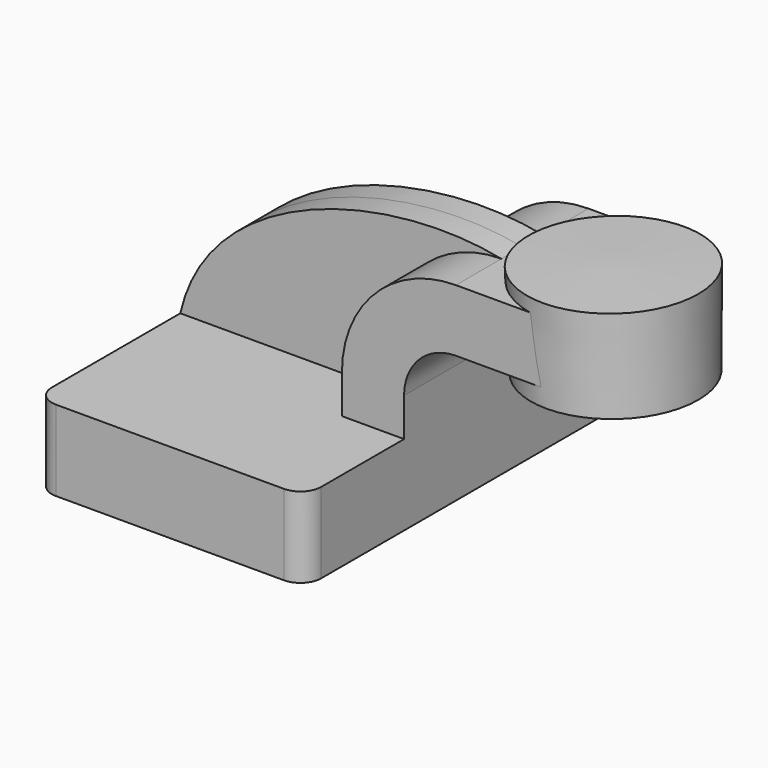
from build123d import *

# Parameters (mm, degrees)
F1_DEPTH = 63.5
F0_W     = 24.7741062101
F0_H     = 19.05
F2_DEPTH = 25.4
F3_DEPTH = 7.9375
F5_R     = 6.35


with BuildPart() as f1:
    # F0 (on Front) → F1 (new body, symmetric)
    with BuildSketch(Plane.XZ):
        Polygon((22.225, 12.3348908712), (-41.275, 12.3348908712), (-41.275, -12.3348908712), (41.275, -12.3348908712), (41.275, 12.3348908712), align=None)
    extrude(amount=F1_DEPTH, both=True)

    # F0 (on Front) → F2 (join, symmetric)
    with BuildSketch(Plane.XZ):
        with BuildLine():
            Line((22.225, 24.1141091288), (22.225, 12.3348908712))
            Line((22.225, 12.3348908712), (41.275, 12.3348908712))
            Line((41.275, 12.3348908712), (41.275, 24.1141091288))
            ThreePointArc((41.275, 24.1141091288), (45.9246798487, 35.3394292801), (57.15, 39.9891091288))
            Line((57.15, 39.9891091288), (60.325, 39.9891091288))
            Line((60.325, 39.9891091288), (60.325, 59.0391091288))
            Line((60.325, 59.0391091288), (57.15, 59.0391091288))
            ThreePointArc((57.15, 59.0391091288), (32.4542956671, 48.8098134617), (22.225, 24.1141091288))
        make_face()
        with Locations((72.7120531051, 49.5141091288)):
            Rectangle(F0_W, F0_H)
    extrude(amount=F2_DEPTH, both=True)

    # F0 (on Front) → F3 (join, symmetric)
    with BuildSketch(Plane.XZ):
        with BuildLine():
            add(Edge.make_bspline(
                [(-41.275, 12.3348908712), (-32.6056554914, 51.0892942548), (21.4900877327, 66.2850886583), (57.15, 59.0391091288)],
                knots=[0, 0, 0, 0, 108.9438599833, 108.9438599833, 108.9438599833, 108.9438599833], degree=3))
            Line((-41.275, 12.3348908712), (22.225, 12.3348908712))
            Line((22.225, 12.3348908712), (22.225, 24.1141091288))
            ThreePointArc((22.225, 24.1141091288), (32.4542956671, 48.8098134617), (57.15, 59.0391091288))
        make_face()
    extrude(amount=F3_DEPTH, both=True)

    # F0 (on Front) → F4 (revolve)
    with BuildSketch(Plane.XZ):
        Polygon((111.125, 63.8651091288), (85.0991062101, 63.8651091288), (85.725, 35.2901091288), (111.125, 35.2901091288), align=None)
    revolve(axis=Axis((85.4120531051, 0, 49.5776091288), (-0.0218982923, 0, 0.9997602036)))

    # F5
    f5_edges = [f1.edges().sort_by_distance(p)[0] for p in [
        (-41.275, -63.5, 0),
        (41.275, -63.5, 0),
        (41.275, 63.5, 0),
        (-41.275, 63.5, 0),
    ]]
    fillet(f5_edges, radius=F5_R)


solid = f1.part
